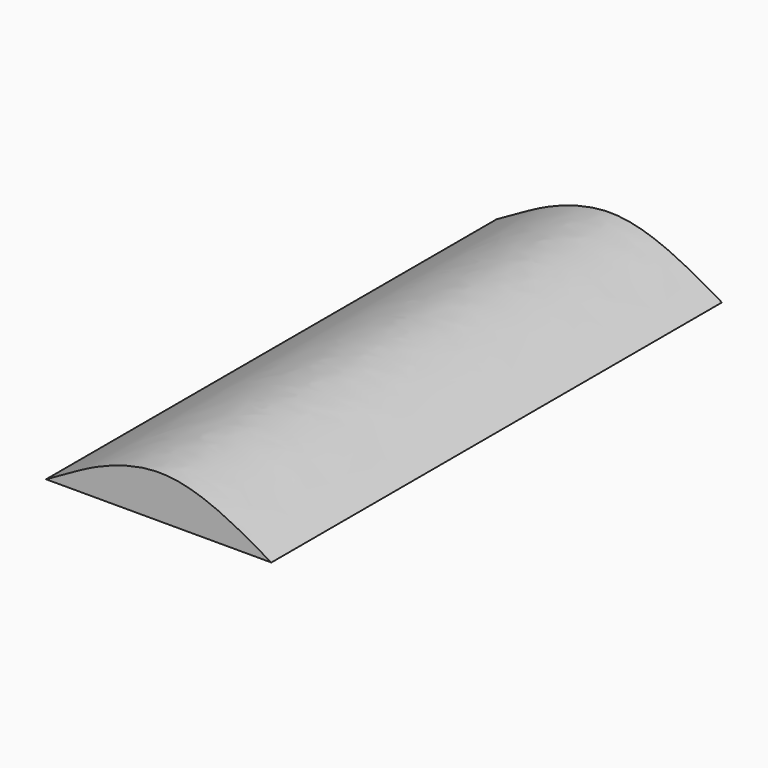
from build123d import *

# Parameters (mm, degrees)
F1_DEPTH = 150


with BuildPart() as f1:
    # F0 (on Front) → F1 (new body)
    with BuildSketch(Plane.XZ):
        with BuildLine():
            Line((-29.4727767196, 0), (0, 0))
            Line((0, 0), (30.5272232804, 0))
            add(Edge.make_bspline(
                [(-29.4727767196, 0), (-25.105805504, 2.5333330902), (-20.4221695864, 5.0770933408), (-19.4395009844, 5.5928052767), (-19.0511150811, 5.7961597824), (2.5769448651, 17.3668611488), (22.7087175257, 4.3804385386), (30.5272232804, 0)],
                knots=[0, 0, 0, 0, 0.2216471616, 0.2776865794, 0.3127372134, 0.614778391, 1, 1, 1, 1], degree=3))
        make_face()
    extrude(amount=F1_DEPTH)


solid = f1.part
